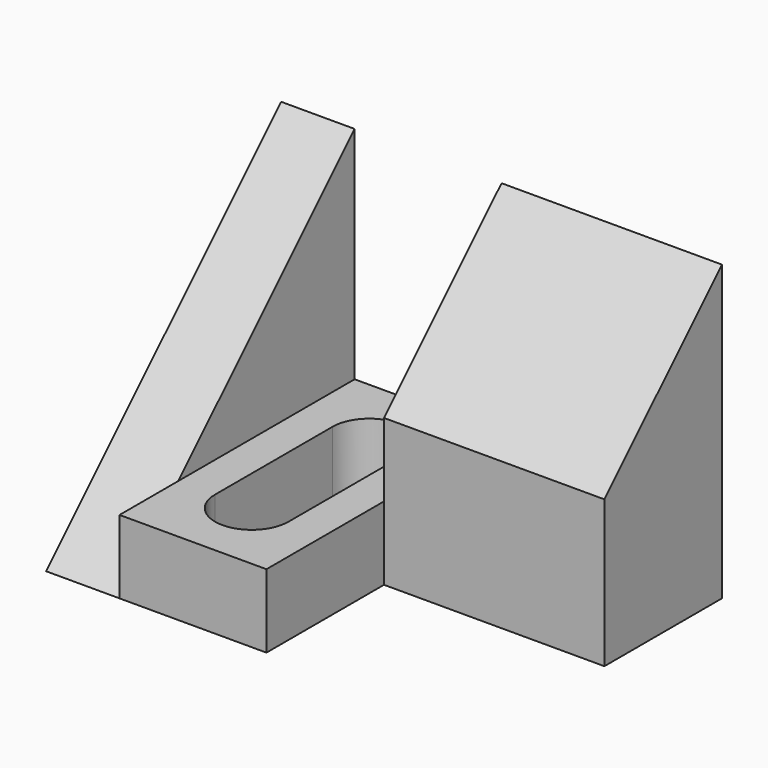
from build123d import *

# Parameters (mm, degrees)
F1_DEPTH = 6.35
F2_W     = 25.4
F2_H     = 6.35
F3_DEPTH = 12.7
F5_DEPTH = 19.05
F7_DEPTH = 6.351


with BuildPart() as f1:
    # F0 (on Right) → F1 (new body)
    with BuildSketch(Plane.YZ):
        Polygon((25.4, 25.4), (0, 0), (25.4, 0), align=None)
    extrude(amount=F1_DEPTH)

    # F2 (on face) → F3 (join)
    with BuildSketch(Plane.YZ.offset(6.35)):
        with Locations((12.7, 3.175)):
            Rectangle(F2_W, F2_H)
    extrude(amount=F3_DEPTH)

    # F4 (on face) → F5 (join)
    with BuildSketch(Plane.YZ.offset(19.05)):
        Polygon((12.7, 12.7), (12.7, 0), (25.4, 0), (25.4, 25.4), align=None)
    extrude(amount=F5_DEPTH)

    # F6 (on face) → F7 (cut, through all)
    with BuildSketch(Plane.XY.offset(6.35)):
        with BuildLine():
            ThreePointArc((9.525, 6.35), (12.7, 3.175), (15.875, 6.35))
            Line((15.875, 6.35), (15.875, 19.05))
            ThreePointArc((15.875, 19.05), (12.7, 22.225), (9.525, 19.05))
            Line((9.525, 19.05), (9.525, 6.35))
        make_face()
    extrude(amount=-F7_DEPTH, mode=Mode.SUBTRACT)


solid = f1.part
